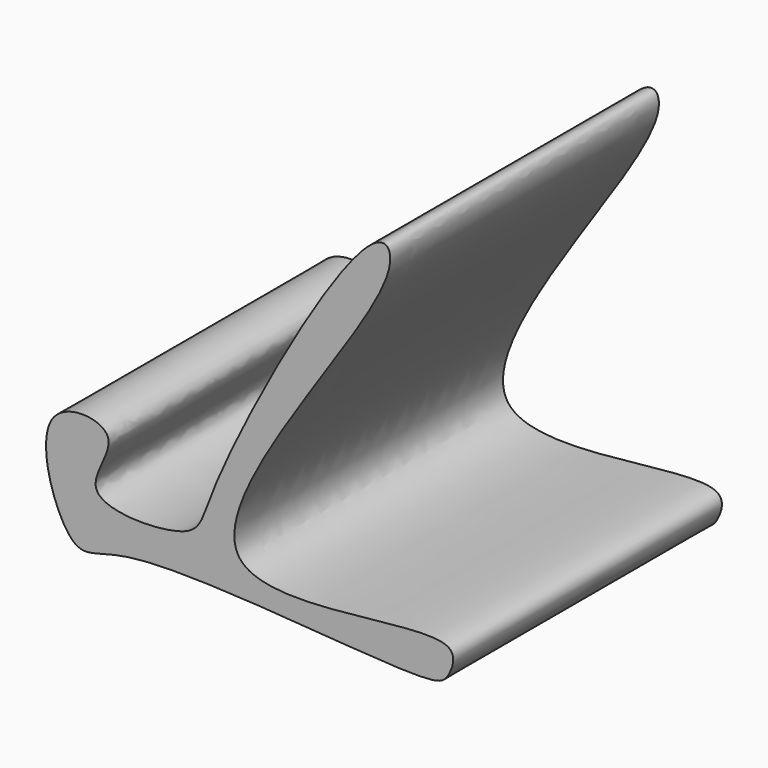
from build123d import *

# Parameters (mm, degrees)
F1_DEPTH = 63.5


with BuildPart() as f1:
    # F0 (on Front) → F1 (new body)
    with BuildSketch(Plane.XZ):
        with BuildLine():
            add(Edge.make_bspline(
                [(33.0539494753, -22.6516760886), (33.7725265556, -21.2699787323), (36.7728422419, -12.6918305427), (-37.3597659129, -33.8889735417), (25.9062409112, 36.8451877957), (18.402336406, 52.1596080022), (-13.8112897503, -6.9897642064), (-13.6545178345, -16.8225190145), (-40.0858391154, -16.9850777953), (-26.1943128549, -2.1708476478), (-47.9989376954, -0.2393593575), (-38.8347528338, -28.7577541142), (-28.4999739626, -19.0759817597), (29.221650911, -26.7260280654), (32.3236891191, -24.0558383298), (33.0539494753, -22.6516760886)],
                knots=[0, 0, 0, 0, 0.0369444533, 0.146291973, 0.2844556218, 0.3239363134, 0.4583331573, 0.5171454512, 0.5872336867, 0.6416843329, 0.6972292528, 0.774449418, 0.8311732757, 0.9624548704, 1, 1, 1, 1], degree=3))
        make_face()
    extrude(amount=F1_DEPTH)


solid = f1.part
